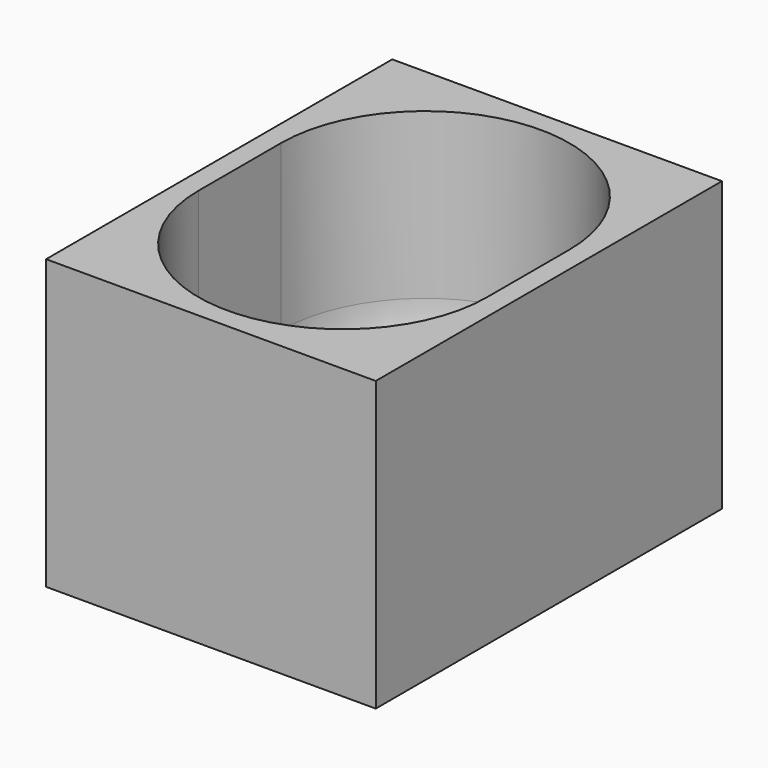
from build123d import *

# Parameters (mm, degrees)
SKETCH019_W     = 16
SKETCH019_H     = 21
PAD005_DEPTH    = 14
POCKET012_DEPTH = 13
FILLET001_R     = 5


with BuildPart() as part:
    # Sketch019 → Pad005 (new body)
    with BuildSketch(Plane.XY):
        with Locations((-67.67703, 154.469096)):
            Rectangle(SKETCH019_W, SKETCH019_H)
    extrude(amount=PAD005_DEPTH)

    # Sketch020 (on Face6 of Pad005) → Pocket012 (cut)
    with BuildSketch(Plane.XY.offset(14)):
        with BuildLine():
            ThreePointArc((-60.67703, 156.969096), (-67.67703, 163.969096), (-74.67703, 156.969096))
            Line((-74.67703, 156.969096), (-74.67703, 151.969096))
            ThreePointArc((-74.67703, 151.969096), (-67.67703, 144.969096), (-60.67703, 151.969096))
            Line((-60.67703, 156.969096), (-60.67703, 151.969096))
        make_face()
    extrude(amount=-POCKET012_DEPTH, mode=Mode.SUBTRACT)

    # Fillet001
    fillet001_edges = [part.edges().sort_by_distance(p)[0] for p in [
        (-67.67703, 144.969096, 1),
        (-74.67703, 154.469096, 1),
        (-60.67703, 154.469096, 1),
        (-67.67703, 163.969096, 1),
    ]]
    fillet(fillet001_edges, radius=FILLET001_R)


solid = part.part
